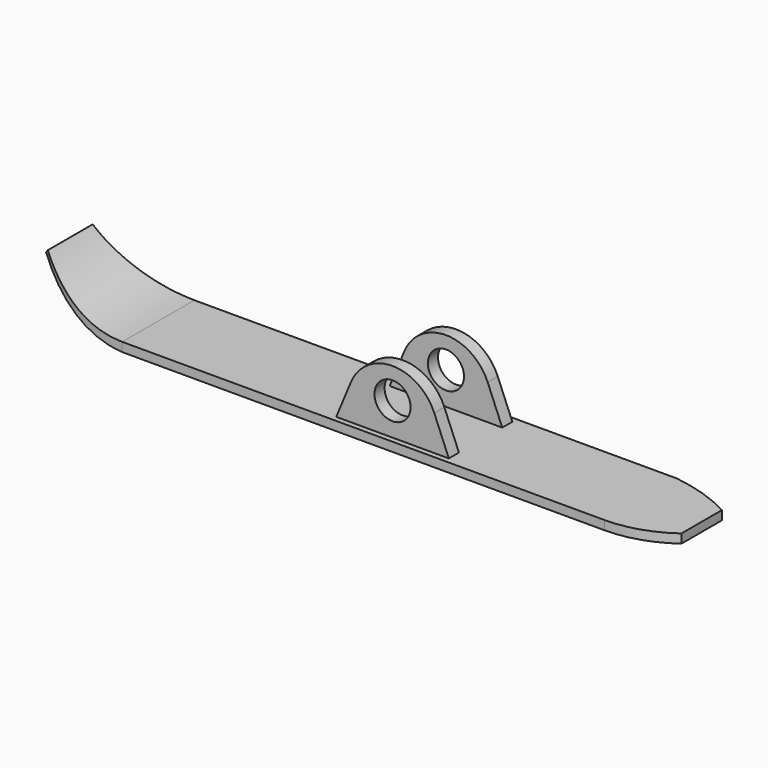
from build123d import *

# Parameters (mm, degrees)
F0_R     = 10
F1_DEPTH = 25
F2_W     = 30
F2_H     = 40.766016
F2_W_2   = 3
F3_DEPTH = 40
F5_DEPTH = 40.001


with BuildPart() as f1:
    # F0 (on Front) → F1 (new body, symmetric)
    with BuildSketch(Plane.XZ):
        with BuildLine():
            Line((-31.201941, 0), (-147.458184, 0))
            ThreePointArc((-147.458184, 0), (-174.873856, 6.613726), (-196.258555, 25))
            Line((-196.258555, 25), (-197.63568, 23.332754))
            ThreePointArc((-197.63568, 23.332754), (-175.850829, 3.315154), (-147.458184, -5))
            Line((-147.458184, -5), (153.741445, -5))
            Line((153.741445, -5), (153.741445, 0))
            Line((153.741445, 0), (31.201941, 0))
            Line((31.201941, 0), (-31.201941, 0))
        make_face()
        with BuildLine():
            Line((-23.096988, 19.567086), (-31.201941, 0))
            Line((-31.201941, 0), (31.201941, 0))
            Line((31.201941, 0), (23.096988, 19.567086))
            ThreePointArc((23.096988, 19.567086), (0, 35), (-23.096988, 19.567086))
        make_face()
        with Locations((0, 18)):
            Circle(F0_R, mode=Mode.SUBTRACT)
    extrude(amount=F1_DEPTH, both=True)

    # F2 (on Right) → F3 (cut, symmetric)
    with BuildSketch(Plane.YZ):
        with Locations((0, 20.383008)):
            Rectangle(F2_W, F2_H)
        with Locations((-23.5, 20.383008)):
            Rectangle(F2_W_2, F2_H)
        with Locations((23.5, 20.383008)):
            Rectangle(F2_W_2, F2_H)
    extrude(amount=F3_DEPTH, both=True, mode=Mode.SUBTRACT)

    # F4 (on face) → F5 (cut, through all)
    with BuildSketch(Plane(origin=(0, 0, -5), x_dir=(1, 0, 0), z_dir=(0, 0, -1))):
        with BuildLine():
            ThreePointArc((-197.63568, 15), (-173.040312, 22.475658), (-147.458184, 25))
            Line((-147.458184, 25), (-197.63568, 25))
            Line((-197.63568, 25), (-197.63568, 15))
        make_face()
        with BuildLine():
            ThreePointArc((-147.458184, -25), (-173.040312, -22.475658), (-197.63568, -15))
            Line((-197.63568, -15), (-197.63568, -25))
            Line((-197.63568, -25), (-147.458184, -25))
        make_face()
        with BuildLine():
            ThreePointArc((153.741445, -14.029152), (137.337425, -21.027169), (119.951203, -25))
            Line((119.951203, -25), (153.741445, -25))
            Line((153.741445, -25), (153.741445, -14.029152))
        make_face()
        with BuildLine():
            Line((153.741445, 14.029152), (153.741445, 25))
            Line((153.741445, 25), (119.951203, 25))
            ThreePointArc((119.951203, 25), (137.714508, 22.188584), (153.741445, 14.029152))
        make_face()
    extrude(amount=-F5_DEPTH, mode=Mode.SUBTRACT)


solid = f1.part
